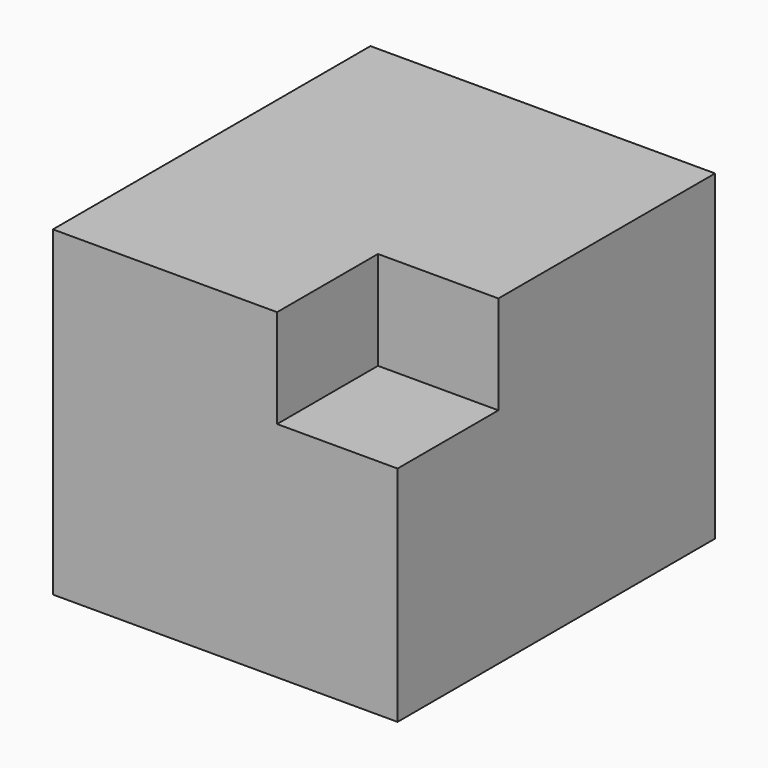
from build123d import *

# Parameters (mm, degrees)
F0_W     = 95.690414
F0_H     = 89.280524
F1_DEPTH = 55.1
F2_W     = 33.446344
F2_H     = 27.346516
F3_DEPTH = 35


with BuildPart() as f1:
    # F0 (on Front) → F1 (new body, symmetric)
    with BuildSketch(Plane.XZ):
        Rectangle(F0_W, F0_H)
    extrude(amount=F1_DEPTH, both=True)

    # F2 (on face) → F3 (cut)
    with BuildSketch(Plane.XZ.offset(55.1)):
        with Locations((31.122035, 30.967004)):
            Rectangle(F2_W, F2_H)
    extrude(amount=-F3_DEPTH, mode=Mode.SUBTRACT)


solid = f1.part
